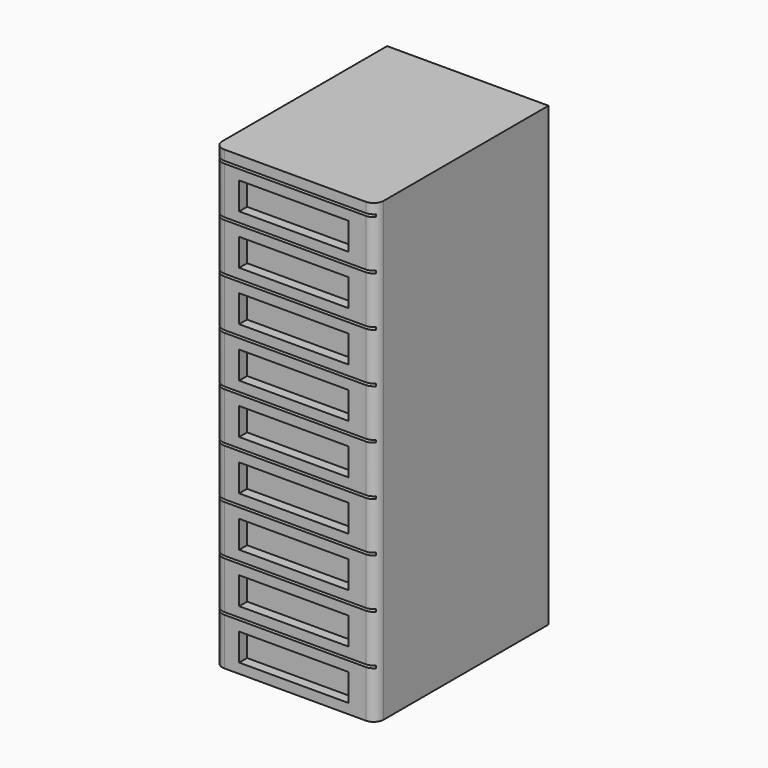
from build123d import *

# Parameters (mm, degrees)
PAD009_DEPTH        = 920
SKETCH017_W         = 220
SKETCH017_H         = 55
SKETCH017_W_2       = 320
SKETCH017_H_2       = 5
POCKET002_DEPTH     = 20
LINEARPATTERN_COUNT = 9
LINEARPATTERN_PITCH = 100


with BuildPart() as part:
    # Sketch016 → Pad009 (new body)
    with BuildSketch(Plane.XY):
        with BuildLine():
            Line((20, 0), (305, 0))
            ThreePointArc((305, 0), (319.142136, 5.857864), (325, 20))
            Line((325, 20), (325, 435))
            Line((325, 435), (0, 435))
            Line((0, 435), (0, 20))
            ThreePointArc((0, 20), (5.857864, 5.857864), (20, 0))
        make_face()
    extrude(amount=PAD009_DEPTH)

    # Sketch017 → Pocket002 (cut)
    with BuildSketch(Plane.XZ):
        with Locations((160, 47.5)):
            Rectangle(SKETCH017_W, SKETCH017_H)
        with Locations((160, 97.5)):
            Rectangle(SKETCH017_W_2, SKETCH017_H_2)
    pocket002 = extrude(amount=-POCKET002_DEPTH, mode=Mode.SUBTRACT)

    # LinearPattern: Pocket002 ×9
    with Locations(*[(0, 0, i * LINEARPATTERN_PITCH) for i in range(1, LINEARPATTERN_COUNT)]):
        add(pocket002, mode=Mode.SUBTRACT)


solid = part.part
